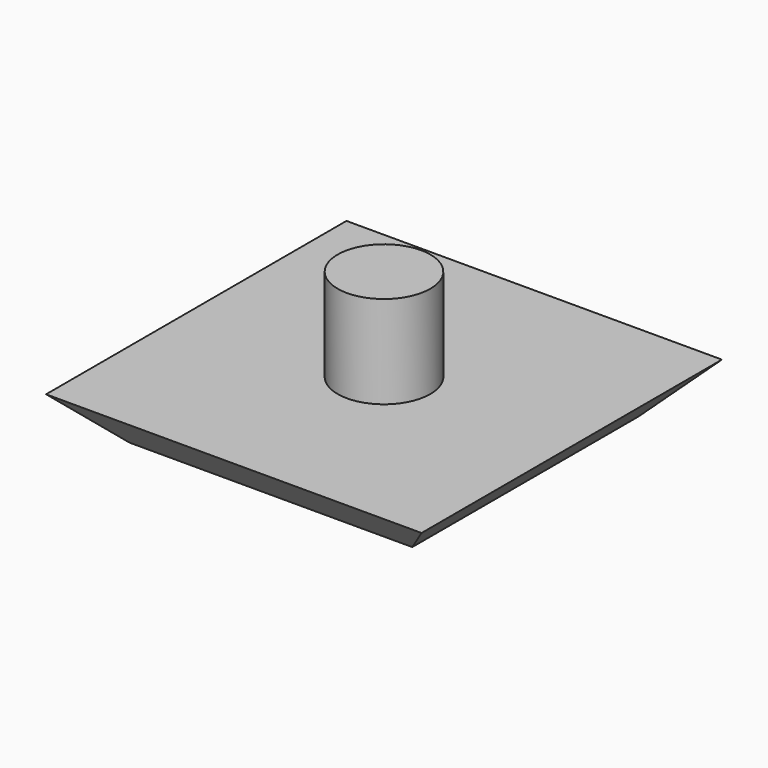
from build123d import *

# Parameters (mm, degrees)
F0_R     = 1.5
F1_DEPTH = 3
F4_W     = 12.1512806053
F4_H     = 12.1512806053
F5_DEPTH = 1.5
F5_TAPER = 45


with BuildPart() as f1:
    # F0 (on Top) → F1 (new body)
    with BuildSketch(Plane.XY):
        Circle(F0_R)
    extrude(amount=F1_DEPTH)

    # F4 (on Top) → F5 (join)
    with BuildSketch(Plane.XY):
        Rectangle(F4_W, F4_H)
    extrude(amount=-F5_DEPTH, taper=F5_TAPER)


solid = f1.part
